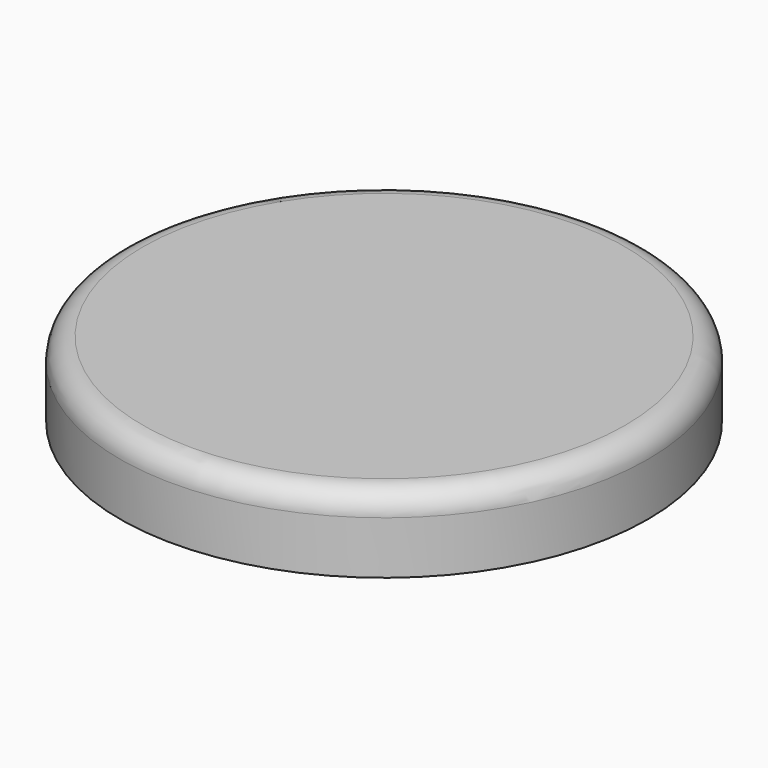
from build123d import *

# Parameters (mm, degrees)
SKETCH001_R  = 35
PAD_DEPTH    = 10
FILLET_R     = 3
SKETCH_R     = 33.5
POCKET_DEPTH = 9
FILLET001_R  = 2


with BuildPart() as part:
    # Sketch001 → Pad (new body)
    with BuildSketch(Plane.XY):
        Circle(SKETCH001_R)
    extrude(amount=PAD_DEPTH)

    # Fillet
    fillet_edges = [part.edges().sort_by_distance(p)[0] for p in [
        (-35, 0, 10),
    ]]
    fillet(fillet_edges, radius=FILLET_R)

    # Sketch → Pocket (cut)
    with BuildSketch(Plane.XY):
        Circle(SKETCH_R)
    extrude(amount=POCKET_DEPTH, mode=Mode.SUBTRACT)

    # Fillet001
    fillet001_edges = [part.edges().sort_by_distance(p)[0] for p in [
        (-33.5, 0, 9),
    ]]
    fillet(fillet001_edges, radius=FILLET001_R)


solid = part.part
